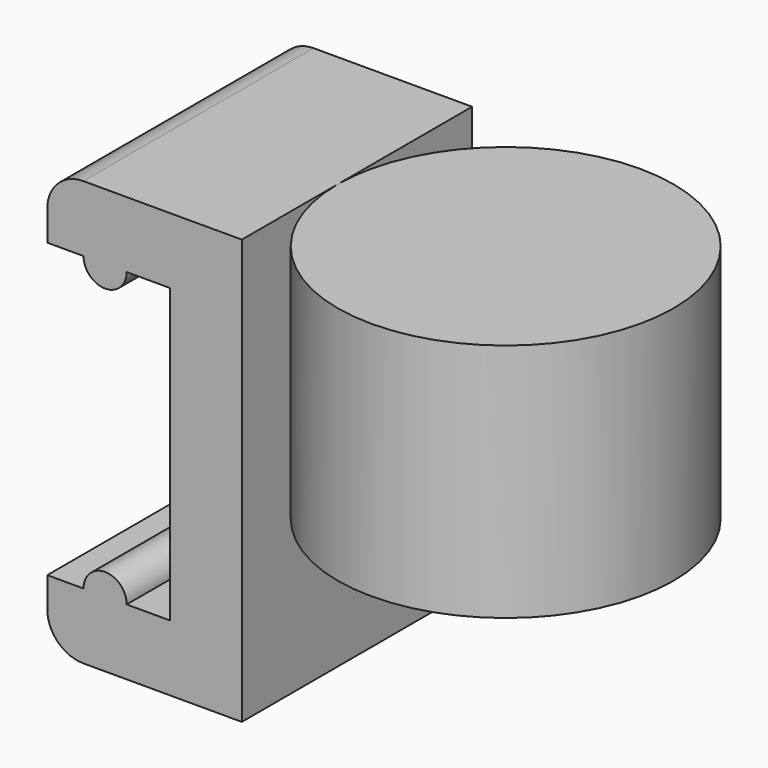
from build123d import *

# Parameters (mm, degrees)
F1_DEPTH = 12
F2_R     = 7
F3_DEPTH = 10


with BuildPart() as f1:
    # F0 (on Front) → F1 (new body)
    with BuildSketch(Plane.XZ):
        with BuildLine():
            ThreePointArc((0, 0.957958), (0.43934, -0.102702), (1.5, -0.542042))
            Line((1.5, -0.542042), (8.11, -0.542042))
            Line((8.11, -0.542042), (8.11, 17.157958))
            Line((8.11, 17.157958), (1.5, 17.157958))
            ThreePointArc((1.5, 17.157958), (0.43934, 16.718618), (0, 15.657958))
            Line((0, 15.657958), (0, 14.407958))
            Line((0, 14.407958), (1.51, 14.407958))
            ThreePointArc((1.51, 14.407958), (2.41, 13.507958), (3.31, 14.407958))
            Line((3.31, 14.407958), (5.11, 14.407958))
            Line((5.11, 14.407958), (5.11, 2.207958))
            Line((5.11, 2.207958), (3.31, 2.207958))
            ThreePointArc((3.31, 2.207958), (2.41, 3.107958), (1.51, 2.207958))
            Line((1.51, 2.207958), (0, 2.207958))
            Line((0, 2.207958), (0, 0.957958))
        make_face()
    extrude(amount=F1_DEPTH)


with BuildPart() as f3:
    # F2 (on face) → F3 (new body)
    with BuildSketch(Plane.XY.offset(17.157958)):
        with Locations((15.11, -7)):
            Circle(F2_R)
    extrude(amount=-F3_DEPTH)


solid = Compound([f1.part, f3.part])
